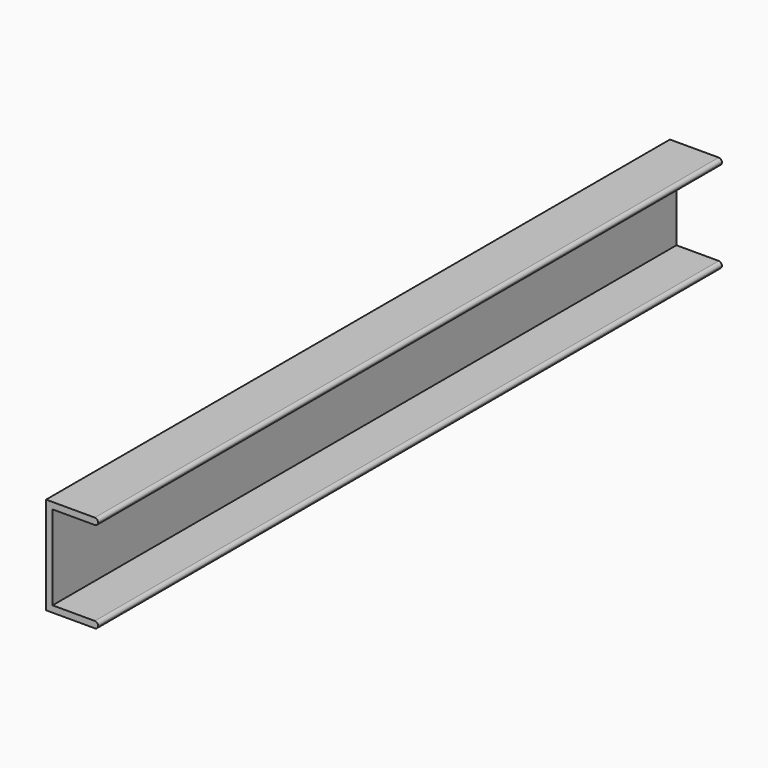
from build123d import *

# Parameters (mm, degrees)
F1_DEPTH = 600


with BuildPart() as f1:
    # F0 (on Front) → F1 (new body)
    with BuildSketch(Plane.XZ):
        with BuildLine():
            Line((0, 75), (0, 0))
            Line((0, 0), (37.5, 0))
            ThreePointArc((37.5, 0), (39.267767, 0.732233), (40, 2.5))
            ThreePointArc((40, 2.5), (39.267767, 4.267767), (37.5, 5))
            Line((37.5, 5), (5, 5))
            Line((5, 5), (5, 70))
            Line((5, 70), (37.5, 70))
            ThreePointArc((37.5, 70), (39.267767, 70.732233), (40, 72.5))
            ThreePointArc((40, 72.5), (39.267767, 74.267767), (37.5, 75))
            Line((37.5, 75), (0, 75))
        make_face()
    extrude(amount=F1_DEPTH)


solid = f1.part
